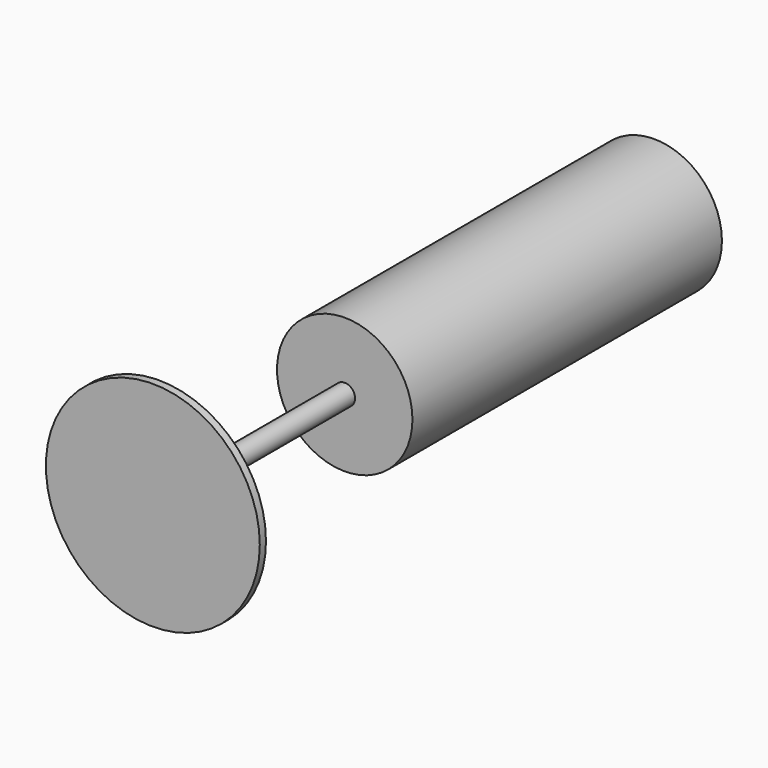
from build123d import *

# Parameters (mm, degrees)
SKETCH003_R  = 8.751236
PAD002_DEPTH = 25
SKETCH004_R  = 1.338937
PAD003_DEPTH = 30
SKETCH005_R  = 13.823981
PAD004_DEPTH = 1


with BuildPart() as part:
    # Sketch003 → Pad002 (new body, symmetric)
    with BuildSketch(Plane.XZ):
        Circle(SKETCH003_R)
    extrude(amount=PAD002_DEPTH, both=True)

    # Sketch004 (on Face3 of Pad002) → Pad003 (join)
    with BuildSketch(Plane.XZ.offset(25)):
        Circle(SKETCH004_R)
    extrude(amount=PAD003_DEPTH)

    # Sketch005 (on Face5 of Pad003) → Pad004 (join)
    with BuildSketch(Plane.XZ.offset(55)):
        Circle(SKETCH005_R)
    extrude(amount=PAD004_DEPTH)


with BuildPart() as part_1:
    # Body002 placement: moved
    add(part.part.moved(Location((0, 0, -13))))


solid = part_1.part
